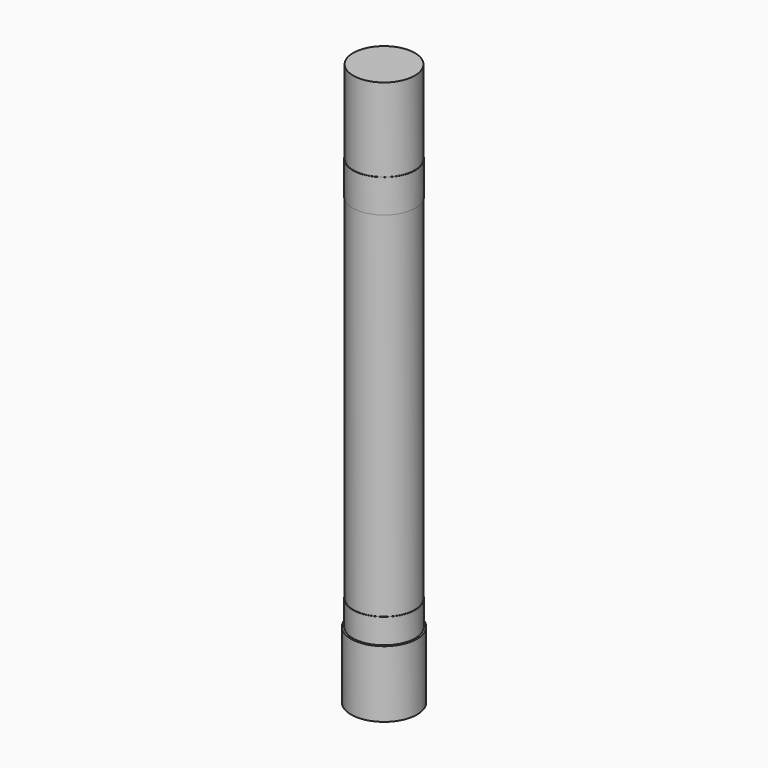
from build123d import *

# Parameters (mm, degrees)
SKETCH004_R  = 7.93
PAD_DEPTH    = 16
SKETCH005_R  = 7.5
PAD001_DEPTH = 6
SKETCH006_R  = 7.4
PAD002_DEPTH = 85
SKETCH007_R  = 7.5
PAD003_DEPTH = 8
SKETCH008_R  = 7.4
PAD004_DEPTH = 20


with BuildPart() as part:
    # Sketch004 → Pad (new body)
    with BuildSketch(Plane.XY):
        Circle(SKETCH004_R)
    extrude(amount=PAD_DEPTH)

    # Sketch005 → Pad001 (new body)
    with BuildSketch(Plane.XY.offset(16)):
        Circle(SKETCH005_R)
    extrude(amount=PAD001_DEPTH)

    # Sketch006 → Pad002 (new body)
    with BuildSketch(Plane.XY.offset(22)):
        Circle(SKETCH006_R)
    extrude(amount=PAD002_DEPTH)

    # Sketch007 → Pad003 (new body)
    with BuildSketch(Plane.XY.offset(107)):
        Circle(SKETCH007_R)
    extrude(amount=PAD003_DEPTH)

    # Sketch008 → Pad004 (new body)
    with BuildSketch(Plane.XY.offset(115)):
        Circle(SKETCH008_R)
    extrude(amount=PAD004_DEPTH)


solid = part.part
